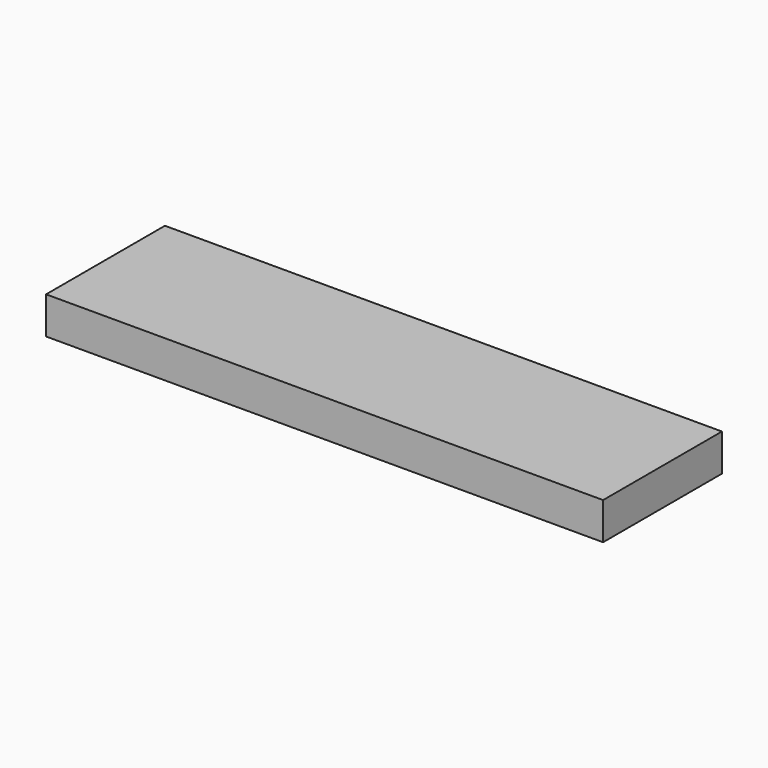
from build123d import *

# Parameters (mm, degrees)
F0_W     = 1524
F0_H     = 406.4
F1_DEPTH = 38.1
F2_W     = 1422.4
F2_H     = 50.8
F3_DEPTH = 63.5


with BuildPart() as f1:
    # F0 (on Top) → F1 (new body)
    with BuildSketch(Plane.XY):
        Rectangle(F0_W, F0_H)
    extrude(amount=F1_DEPTH)

    # F2 (on face) → F3 (join)
    with BuildSketch(Plane(origin=(0, 0, 0), x_dir=(1, 0, 0), z_dir=(0, 0, -1))):
        Polygon((-711.2, 152.4), (-711.2, 203.2), (-762, 203.2), (-762, -203.2), (-711.2, -203.2), (-711.2, -152.4), align=None)
        Polygon((762, -203.2), (762, 203.2), (711.2, 203.2), (711.2, 152.4), (711.2, -152.4), (711.2, -203.2), align=None)
        with Locations((0, -177.8)):
            Rectangle(F2_W, F2_H)
        with Locations((0, 177.8)):
            Rectangle(F2_W, F2_H)
    extrude(amount=F3_DEPTH)


solid = f1.part
